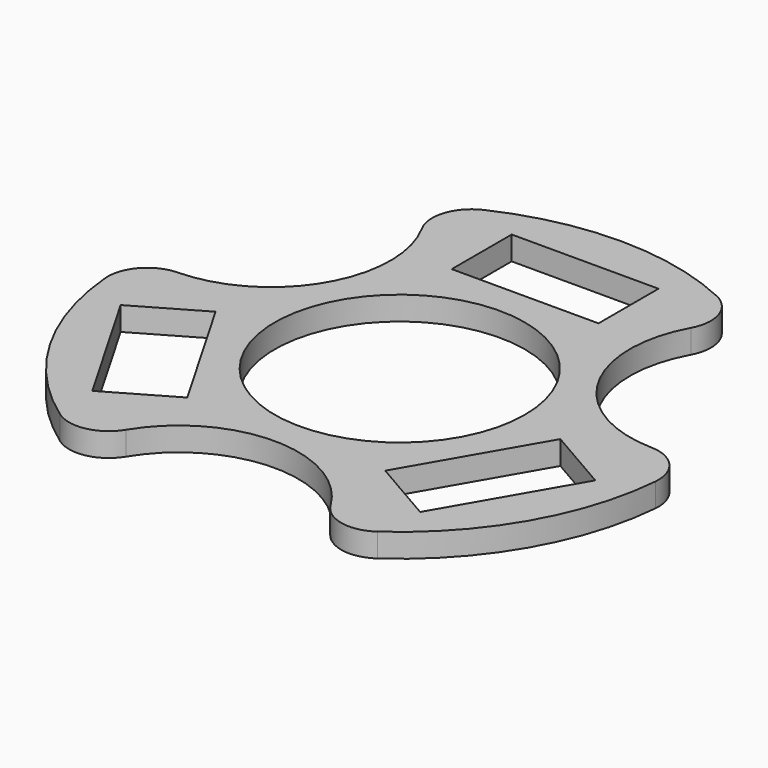
from build123d import *

# Parameters (mm, degrees)
F0_R     = 15.85
F0_W     = 18.6
F0_H     = 9.5
F1_DEPTH = 1.5


with BuildPart() as f1:
    # F0 (on Top) → F1 (new body, symmetric)
    with BuildSketch(Plane.XY):
        with BuildLine():
            ThreePointArc((-29.989275, 2.353414), (-33.606886, 0.691253), (-34.863653, -3.086369))
            ThreePointArc((-34.863653, -3.086369), (-30.310889, -17.5), (-20.104701, -28.649625))
            ThreePointArc((-20.104701, -28.649625), (-16.2048, -29.450044), (-12.956521, -27.148181))
            ThreePointArc((-12.956521, -27.148181), (0, -19.85), (12.956521, -27.148181))
            ThreePointArc((12.956521, -27.148181), (16.2048, -29.450044), (20.104701, -28.649625))
            ThreePointArc((20.104701, -28.649625), (30.310889, -17.5), (34.863653, -3.086369))
            ThreePointArc((34.863653, -3.086369), (33.606886, 0.691253), (29.989275, 2.353414))
            ThreePointArc((29.989275, 2.353414), (17.190604, 9.925), (17.032754, 24.794767))
            ThreePointArc((17.032754, 24.794767), (17.402086, 28.758791), (14.758953, 31.735994))
            ThreePointArc((14.758953, 31.735994), (0, 35), (-14.758953, 31.735994))
            ThreePointArc((-14.758953, 31.735994), (-17.402086, 28.758791), (-17.032754, 24.794767))
            ThreePointArc((-17.032754, 24.794767), (-17.190604, 9.925), (-29.989275, 2.353414))
        make_face()
        Polygon((-20.767846, -22.729036), (-30.067846, -6.620964), (-21.840604, -1.870964), (-12.540604, -17.979036), align=None, mode=Mode.SUBTRACT)
        Circle(F0_R, mode=Mode.SUBTRACT)
        Polygon((30.067846, -6.620964), (20.767846, -22.729036), (12.540604, -17.979036), (21.840604, -1.870964), align=None, mode=Mode.SUBTRACT)
        with Locations((0, 24.6)):
            Rectangle(F0_W, F0_H, mode=Mode.SUBTRACT)
    extrude(amount=F1_DEPTH, both=True)


solid = f1.part
